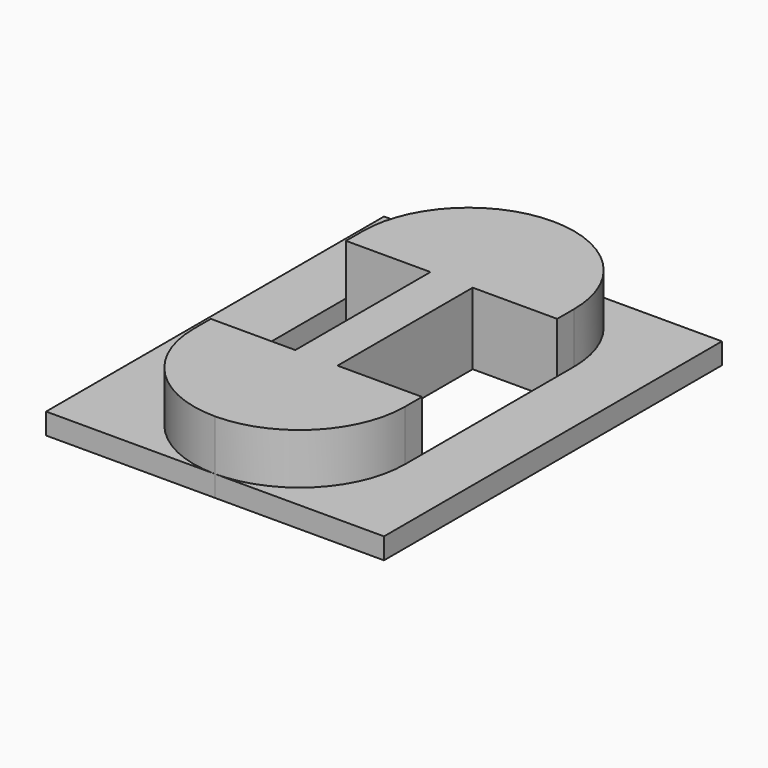
from build123d import *

# Parameters (mm, degrees)
F1_DEPTH = 0.5
F2_DEPTH = 1.7


with BuildPart() as f1:
    # F0 (on Top) → F1 (new body)
    with BuildSketch(Plane.XY):
        with BuildLine():
            ThreePointArc((-2.5, 2.5), (-1.767767, 4.267767), (0, 5))
            Line((0, 5), (-4, 5))
            Line((-4, 5), (-4, -5))
            Line((-4, -5), (0, -5))
            ThreePointArc((0, -5), (-1.767767, -4.267767), (-2.5, -2.5))
            Line((-2.5, -2.5), (-2.5, -2))
            Line((-2.5, -2), (-2.5, 2))
            Line((-2.5, 2), (-2.5, 2.5))
        make_face()
        with BuildLine():
            ThreePointArc((0, 5), (1.767767, 4.267767), (2.5, 2.5))
            Line((2.5, 2.5), (2.5, 2))
            Line((2.5, 2), (2.5, -2))
            Line((2.5, -2), (2.5, -2.5))
            ThreePointArc((2.5, -2.5), (1.767767, -4.267767), (0, -5))
            Line((0, -5), (4, -5))
            Line((4, -5), (4, 5))
            Line((4, 5), (0, 5))
        make_face()
    extrude(amount=F1_DEPTH)


with BuildPart() as f2:
    # F0 (on Top) → F2 (new body)
    with BuildSketch(Plane.XY):
        with BuildLine():
            Line((2.5, 2), (2.5, 2.5))
            ThreePointArc((2.5, 2.5), (1.767767, 4.267767), (0, 5))
            ThreePointArc((0, 5), (-1.767767, 4.267767), (-2.5, 2.5))
            Line((-2.5, 2.5), (-2.5, 2))
            Line((-2.5, 2), (-0.5, 2))
            Line((-0.5, 2), (-0.5, -2))
            Line((-0.5, -2), (-2.5, -2))
            Line((-2.5, -2), (-2.5, -2.5))
            ThreePointArc((-2.5, -2.5), (-1.767767, -4.267767), (0, -5))
            ThreePointArc((0, -5), (1.767767, -4.267767), (2.5, -2.5))
            Line((2.5, -2.5), (2.5, -2))
            Line((2.5, -2), (0.5, -2))
            Line((0.5, -2), (0.5, 2))
            Line((0.5, 2), (2.5, 2))
        make_face()
    extrude(amount=F2_DEPTH)


solid = Compound([f1.part, f2.part])
